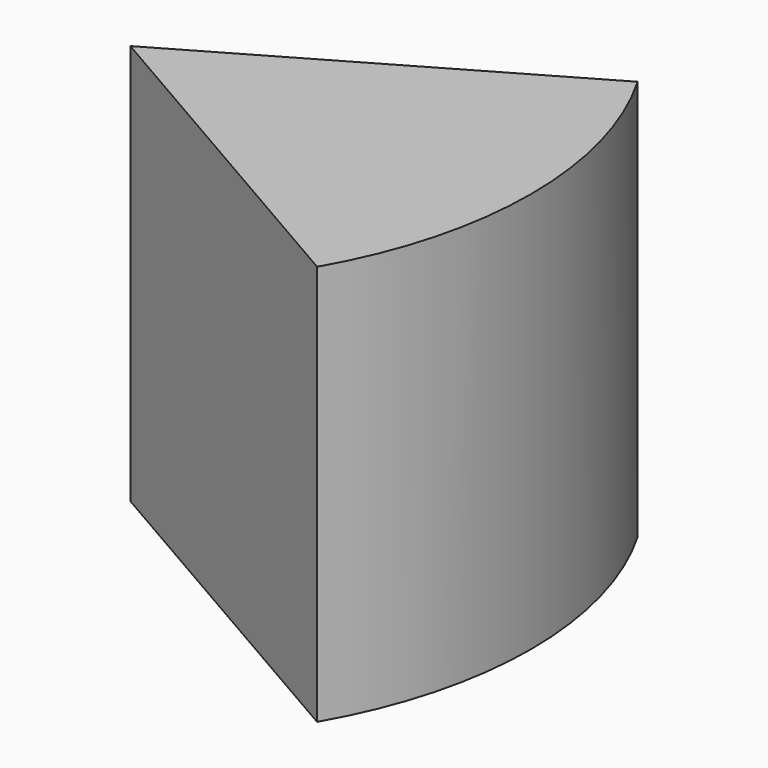
from build123d import *

# Parameters (mm, degrees)
F0_W     = 70
F0_H     = 70
F1_ANGLE = 60


with BuildPart() as f1:
    # F0 (on Front) → F1 (revolve, symmetric)
    with BuildSketch(Plane.XZ) as f1_sk:
        with Locations((35, 35)):
            Rectangle(F0_W, F0_H)
    revolve(axis=Axis((0, 0, 35), (0, 0, 1)), revolution_arc=F1_ANGLE / 2)
    revolve(f1_sk.sketch, axis=Axis((0, 0, 35), (0, 0, -1)), revolution_arc=F1_ANGLE / 2)


solid = f1.part
